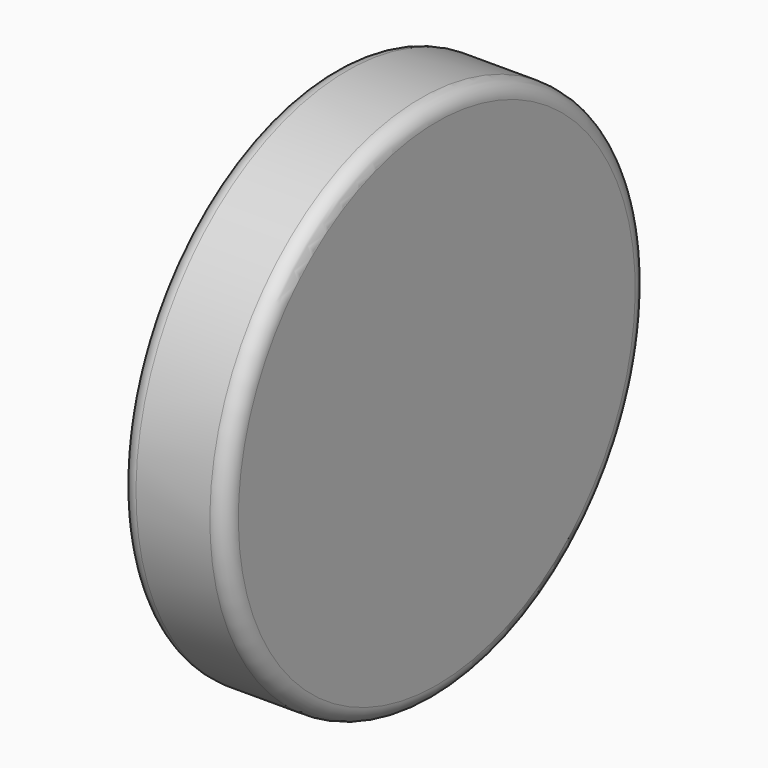
from build123d import *

# Parameters (mm, degrees)
SKETCH002_R  = 50
PAD002_DEPTH = 20
FILLET003_R  = 3
FILLET004_R  = 3


with BuildPart() as part:
    # Sketch002 → Pad002 (new body)
    with BuildSketch(Plane(origin=(-110, 0, 0), x_dir=(0, 0, -1), z_dir=(1, 0, 0))):
        with Locations((0.73979, -0.924742)):
            Circle(SKETCH002_R)
    extrude(amount=PAD002_DEPTH)

    # Fillet003
    fillet003_edges = [part.edges().sort_by_distance(p)[0] for p in [
        (-90, -0.924742, 49.26021),
    ]]
    fillet(fillet003_edges, radius=FILLET003_R)

    # Fillet004
    fillet004_edges = [part.edges().sort_by_distance(p)[0] for p in [
        (-110, -0.924742, 49.26021),
    ]]
    fillet(fillet004_edges, radius=FILLET004_R)


solid = part.part
